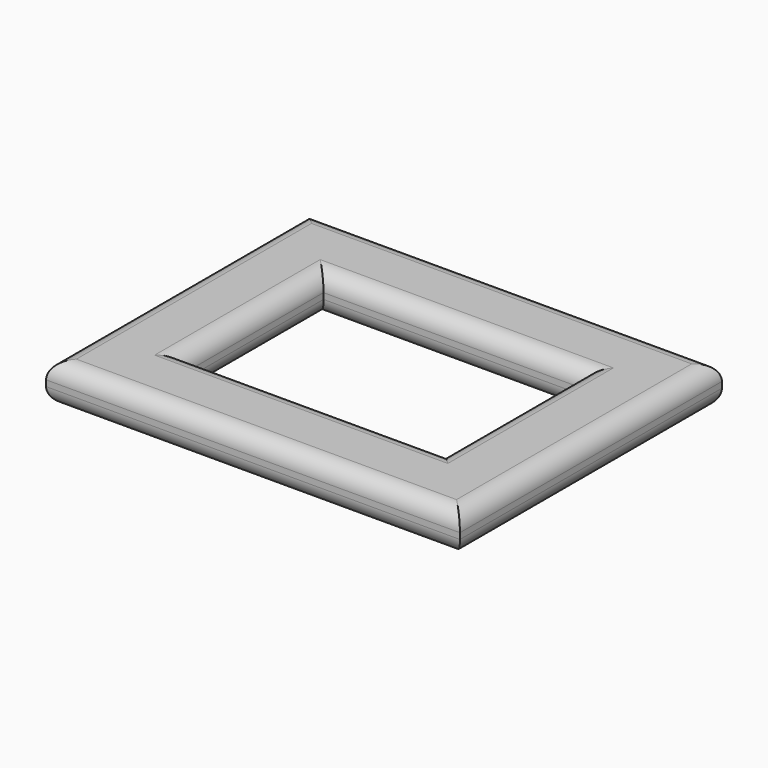
from build123d import *


with BuildPart() as f3:
    # F3: sweep along a path in F0
    with BuildLine(Plane.XY) as f3_path:
        Line((-48.9956587553, -31.9582261145), (-48.9956587553, 37.8614403307))
        Line((-48.9956587553, 37.8614403307), (46.5050749481, 37.8614403307))
        Line((46.5050749481, 37.8614403307), (46.5050749481, -31.9582261145))
        Line((46.5050749481, -31.9582261145), (-48.9956587553, -31.9582261145))
    # F2 (on line) → F3 (sweep)
    with BuildSketch(Plane(origin=(0, -31.9582261145, 0), x_dir=(-1, 0, 0), z_dir=(0, 1, 0))):
        with BuildLine():
            ThreePointArc((62.8205239773, 1.0463608243), (61.3560578832, 4.5818947302), (57.8205239773, 6.0463608243))
            Line((57.8205239773, 6.0463608243), (44.8794151843, 6.0463608243))
            ThreePointArc((44.8794151843, 6.0463608243), (41.3438812783, 4.5818947302), (39.8794151843, 1.0463608243))
            Line((39.8794151843, 1.0463608243), (39.8794151843, -0.7324664667))
            ThreePointArc((39.8794151843, -0.7324664667), (41.3438812783, -4.2680003727), (44.8794151843, -5.7324664667))
            Line((44.8794151843, -5.7324664667), (57.8205239773, -5.7324664667))
            ThreePointArc((57.8205239773, -5.7324664667), (61.3560578832, -4.2680003727), (62.8205239773, -0.7324664667))
            Line((62.8205239773, -0.7324664667), (62.8205239773, 1.0463608243))
        make_face()
    sweep(path=f3_path.line, transition=Transition.RIGHT)


solid = f3.part
